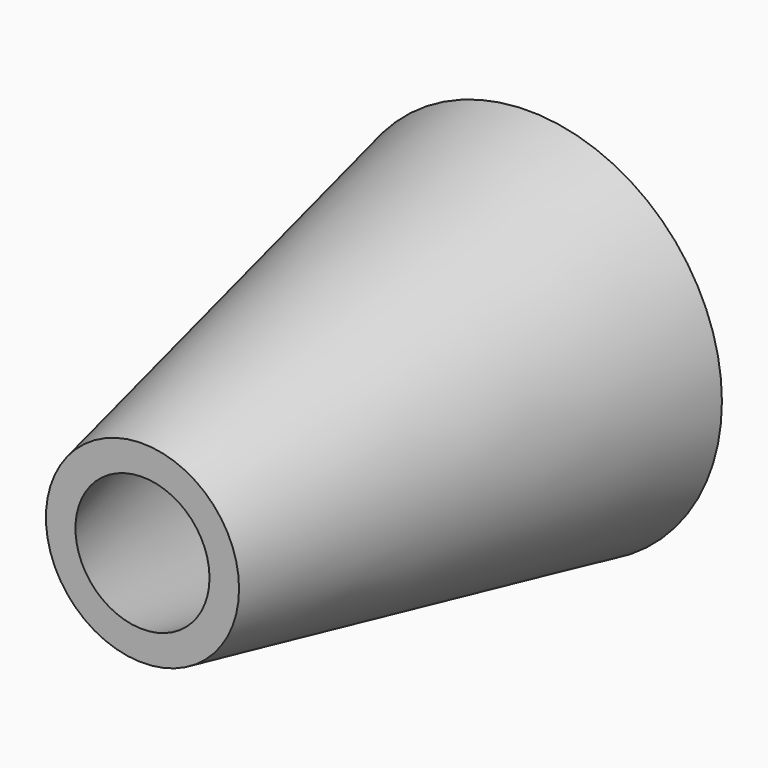
from build123d import *

# Parameters (mm, degrees)
F0_R       = 10
F1_DEPTH   = 25
F1_FACE1_R = 10
F2_R       = 5
F4_T       = -1.5


with BuildPart() as f1:
    # F0 (on Front) → F1 (new body)
    with BuildSketch(Plane.XZ):
        Circle(F0_R)
    extrude(amount=F1_DEPTH)

    # F1_face1 (on face) → F3 section 0
    with BuildSketch(Plane(origin=(0, 0, 0), x_dir=(1, 0, 0), z_dir=(0, 1, 0))):
        Circle(F1_FACE1_R)
    # F2 (on face) → F3 section 1
    with BuildSketch(Plane.XZ.offset(25)):
        Circle(F2_R)
    loft(mode=Mode.INTERSECT)

    # F4
    f4_openings = [f1.faces().sort_by_distance(p)[0] for p in [
        (0, 0, 0),
        (0, -25, 0),
    ]]
    offset(amount=F4_T, openings=f4_openings, kind=Kind.INTERSECTION)


solid = f1.part
